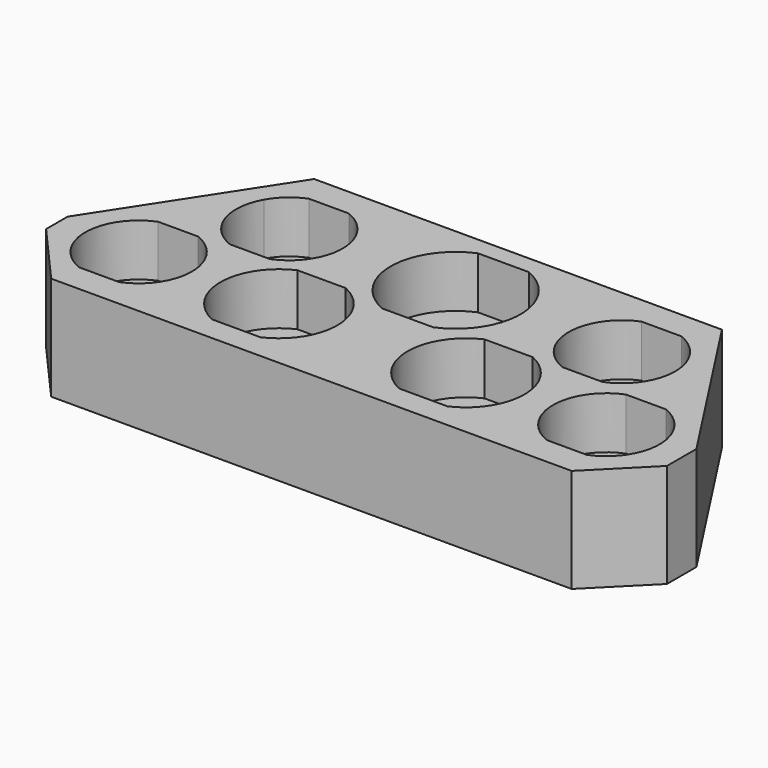
from build123d import *

# Parameters (mm, degrees)
F0_R     = 6.75
F1_DEPTH = 20
F2_DEPTH = 25
F3_DEPTH = 15
F4_DEPTH = 10


with BuildPart() as f1:
    # F0 (on Top) → F1 (new body)
    with BuildSketch(Plane.XY):
        Polygon((39.2457761297, 25), (-39.2132411266, 25), (-44.2739831788, 17.2285289957), (-60.5, -7.6887692861), (-60.5, -12.8802804498), (-49.8254138643, -25), (50.3314169129, -25), (60.5, -14.7866762627), (60.5, -7.6988059543), align=None)
        with BuildLine():
            ThreePointArc((-48.8487010796, -19.5), (-55.25, -10), (-48.8487010796, -0.5))
            Line((-48.8487010796, -0.5), (-41.1512989204, -0.5))
            ThreePointArc((-41.1512989204, -0.5), (-34.75, -10), (-41.1512989204, -19.5))
            Line((-41.1512989204, -19.5), (-48.8487010796, -19.5))
        make_face(mode=Mode.SUBTRACT)
        with BuildLine():
            ThreePointArc((-22.6368092477, -20.25), (-29.25, -10), (-22.6368092477, 0.25))
            Line((-22.6368092477, 0.25), (-13.3631907523, 0.25))
            ThreePointArc((-13.3631907523, 0.25), (-6.75, -10), (-13.3631907523, -20.25))
            Line((-13.3631907523, -20.25), (-22.6368092477, -20.25))
        make_face(mode=Mode.SUBTRACT)
        with BuildLine():
            ThreePointArc((13.3631907523, -20.25), (6.75, -10), (13.3631907523, 0.25))
            Line((13.3631907523, 0.25), (22.6368092477, 0.25))
            ThreePointArc((22.6368092477, 0.25), (29.25, -10), (22.6368092477, -20.25))
            Line((22.6368092477, -20.25), (13.3631907523, -20.25))
        make_face(mode=Mode.SUBTRACT)
        with BuildLine():
            ThreePointArc((41.1512989204, -19.5), (34.75, -10), (41.1512989204, -0.5))
            Line((41.1512989204, -0.5), (48.8487010796, -0.5))
            ThreePointArc((48.8487010796, -0.5), (55.25, -10), (48.8487010796, -19.5))
            Line((48.8487010796, -19.5), (41.1512989204, -19.5))
        make_face(mode=Mode.SUBTRACT)
        with BuildLine():
            ThreePointArc((-35.8487010796, 0.5), (-41.678209871, 6.6243883973), (-40.9220400109, 15.0457607994))
            ThreePointArc((-40.9220400109, 15.0457607994), (-38.7626192199, 17.7025632932), (-35.8487010796, 19.5))
            Line((-35.8487010796, 19.5), (-28.1512989204, 19.5))
            ThreePointArc((-28.1512989204, 19.5), (-21.75, 10), (-28.1512989204, 0.5))
            Line((-28.1512989204, 0.5), (-35.8487010796, 0.5))
        make_face(mode=Mode.SUBTRACT)
        with BuildLine():
            ThreePointArc((-4.8989794856, -1.5), (-12.5, 10), (-4.8989794856, 21.5))
            Line((-4.8989794856, 21.5), (4.8989794856, 21.5))
            ThreePointArc((4.8989794856, 21.5), (12.5, 10), (4.8989794856, -1.5))
            Line((4.8989794856, -1.5), (-4.8989794856, -1.5))
        make_face(mode=Mode.SUBTRACT)
        with BuildLine():
            ThreePointArc((28.1512989204, 0.5), (21.75, 10), (28.1512989204, 19.5))
            Line((28.1512989204, 19.5), (35.8487010796, 19.5))
            ThreePointArc((35.8487010796, 19.5), (42.25, 10), (35.8487010796, 0.5))
            Line((35.8487010796, 0.5), (28.1512989204, 0.5))
        make_face(mode=Mode.SUBTRACT)
        with BuildLine():
            Line((4.8989794856, 21.5), (-4.8989794856, 21.5))
            ThreePointArc((-4.8989794856, 21.5), (-12.5, 10), (-4.8989794856, -1.5))
            Line((-4.8989794856, -1.5), (4.8989794856, -1.5))
            ThreePointArc((4.8989794856, -1.5), (12.5, 10), (4.8989794856, 21.5))
        make_face()
        with Locations((0, 10)):
            Circle(F0_R, mode=Mode.SUBTRACT)
        with BuildLine():
            Line((-13.3631907523, 0.25), (-22.6368092477, 0.25))
            ThreePointArc((-22.6368092477, 0.25), (-29.25, -10), (-22.6368092477, -20.25))
            Line((-22.6368092477, -20.25), (-13.3631907523, -20.25))
            ThreePointArc((-13.3631907523, -20.25), (-6.75, -10), (-13.3631907523, 0.25))
        make_face()
        with Locations((-18, -10)):
            Circle(F0_R, mode=Mode.SUBTRACT)
        with BuildLine():
            Line((22.6368092477, 0.25), (13.3631907523, 0.25))
            ThreePointArc((13.3631907523, 0.25), (6.75, -10), (13.3631907523, -20.25))
            Line((13.3631907523, -20.25), (22.6368092477, -20.25))
            ThreePointArc((22.6368092477, -20.25), (29.25, -10), (22.6368092477, 0.25))
        make_face()
        with Locations((18, -10)):
            Circle(F0_R, mode=Mode.SUBTRACT)
        with BuildLine():
            Line((-41.1512989204, -0.5), (-48.8487010796, -0.5))
            ThreePointArc((-48.8487010796, -0.5), (-55.25, -10), (-48.8487010796, -19.5))
            Line((-48.8487010796, -19.5), (-41.1512989204, -19.5))
            ThreePointArc((-41.1512989204, -19.5), (-34.75, -10), (-41.1512989204, -0.5))
        make_face()
        with Locations((-45, -10)):
            Circle(F0_R, mode=Mode.SUBTRACT)
        with BuildLine():
            ThreePointArc((-35.8487010796, 19.5), (-38.7626192199, 17.7025632932), (-40.9220400109, 15.0457607994))
            ThreePointArc((-40.9220400109, 15.0457607994), (-41.678209871, 6.6243883973), (-35.8487010796, 0.5))
            Line((-35.8487010796, 0.5), (-28.1512989204, 0.5))
            ThreePointArc((-28.1512989204, 0.5), (-21.75, 10), (-28.1512989204, 19.5))
            Line((-28.1512989204, 19.5), (-35.8487010796, 19.5))
        make_face()
        with Locations((-32, 10)):
            Circle(F0_R, mode=Mode.SUBTRACT)
        with BuildLine():
            Line((35.8487010796, 19.5), (28.1512989204, 19.5))
            ThreePointArc((28.1512989204, 19.5), (21.75, 10), (28.1512989204, 0.5))
            Line((28.1512989204, 0.5), (35.8487010796, 0.5))
            ThreePointArc((35.8487010796, 0.5), (42.25, 10), (35.8487010796, 19.5))
        make_face()
        with Locations((32, 10)):
            Circle(F0_R, mode=Mode.SUBTRACT)
        with BuildLine():
            Line((48.8487010796, -0.5), (41.1512989204, -0.5))
            ThreePointArc((41.1512989204, -0.5), (34.75, -10), (41.1512989204, -19.5))
            Line((41.1512989204, -19.5), (48.8487010796, -19.5))
            ThreePointArc((48.8487010796, -19.5), (55.25, -10), (48.8487010796, -0.5))
        make_face()
        with Locations((45, -10)):
            Circle(F0_R, mode=Mode.SUBTRACT)
        with Locations((-45, -10)):
            Circle(F0_R)
        Polygon((-44.2783121635, -8.75), (-43.556624327, -10), (-44.2783121635, -11.25), (-45.7216878365, -11.25), (-46.443375673, -10), (-45.7216878365, -8.75), align=None, mode=Mode.SUBTRACT)
        with Locations((-32, 10)):
            Circle(F0_R)
        Polygon((-33.5877132403, 12.75), (-30.4122867597, 12.75), (-28.8245735195, 10), (-30.4122867597, 7.25), (-33.5877132403, 7.25), (-35.1754264805, 10), align=None, mode=Mode.SUBTRACT)
        with Locations((-18, -10)):
            Circle(F0_R)
        Polygon((-15.9792740578, -10), (-16.9896370289, -11.75), (-19.0103629711, -11.75), (-20.0207259422, -10), (-19.0103629711, -8.25), (-16.9896370289, -8.25), align=None, mode=Mode.SUBTRACT)
        with Locations((0, 10)):
            Circle(F0_R)
        Polygon((3.7527767497, 10), (1.8763883749, 6.75), (-1.8763883749, 6.75), (-3.7527767497, 10), (-1.8763883749, 13.25), (1.8763883749, 13.25), align=None, mode=Mode.SUBTRACT)
        with Locations((18, -10)):
            Circle(F0_R)
        Polygon((19.7320508076, -10), (18.8660254038, -11.5), (17.1339745962, -11.5), (16.2679491924, -10), (17.1339745962, -8.5), (18.8660254038, -8.5), align=None, mode=Mode.SUBTRACT)
        with Locations((32, 10)):
            Circle(F0_R)
        Polygon((33.2990381057, 12.25), (34.5980762114, 10), (33.2990381057, 7.75), (30.7009618943, 7.75), (29.4019237886, 10), (30.7009618943, 12.25), align=None, mode=Mode.SUBTRACT)
        with Locations((45, -10)):
            Circle(F0_R)
        Polygon((46.1547005384, -10), (45.5773502692, -11), (44.4226497308, -11), (43.8452994616, -10), (44.4226497308, -9), (45.5773502692, -9), align=None, mode=Mode.SUBTRACT)
        Polygon((-1.8763883749, 6.75), (1.8763883749, 6.75), (3.7527767497, 10), (1.8763883749, 13.25), (-1.8763883749, 13.25), (-3.7527767497, 10), align=None)
        Polygon((-28.8245735195, 10), (-30.4122867597, 12.75), (-33.5877132403, 12.75), (-35.1754264805, 10), (-33.5877132403, 7.25), (-30.4122867597, 7.25), align=None)
        Polygon((33.2990381057, 7.75), (34.5980762114, 10), (33.2990381057, 12.25), (30.7009618943, 12.25), (29.4019237886, 10), (30.7009618943, 7.75), align=None)
        Polygon((-19.0103629711, -11.75), (-16.9896370289, -11.75), (-15.9792740578, -10), (-16.9896370289, -8.25), (-19.0103629711, -8.25), (-20.0207259422, -10), align=None)
        Polygon((17.1339745962, -11.5), (18.8660254038, -11.5), (19.7320508076, -10), (18.8660254038, -8.5), (17.1339745962, -8.5), (16.2679491924, -10), align=None)
        Polygon((-44.2783121635, -11.25), (-43.556624327, -10), (-44.2783121635, -8.75), (-45.7216878365, -8.75), (-46.443375673, -10), (-45.7216878365, -11.25), align=None)
        Polygon((44.4226497308, -11), (45.5773502692, -11), (46.1547005384, -10), (45.5773502692, -9), (44.4226497308, -9), (43.8452994616, -10), align=None)
    extrude(amount=-F1_DEPTH)

    # F0 (on Top) → F2 (cut)
    with BuildSketch(Plane.XY):
        Polygon((-28.8245735195, 10), (-30.4122867597, 12.75), (-33.5877132403, 12.75), (-35.1754264805, 10), (-33.5877132403, 7.25), (-30.4122867597, 7.25), align=None)
        Polygon((-1.8763883749, 6.75), (1.8763883749, 6.75), (3.7527767497, 10), (1.8763883749, 13.25), (-1.8763883749, 13.25), (-3.7527767497, 10), align=None)
        Polygon((33.2990381057, 7.75), (34.5980762114, 10), (33.2990381057, 12.25), (30.7009618943, 12.25), (29.4019237886, 10), (30.7009618943, 7.75), align=None)
        Polygon((-44.2783121635, -11.25), (-43.556624327, -10), (-44.2783121635, -8.75), (-45.7216878365, -8.75), (-46.443375673, -10), (-45.7216878365, -11.25), align=None)
        Polygon((-19.0103629711, -11.75), (-16.9896370289, -11.75), (-15.9792740578, -10), (-16.9896370289, -8.25), (-19.0103629711, -8.25), (-20.0207259422, -10), align=None)
        Polygon((17.1339745962, -11.5), (18.8660254038, -11.5), (19.7320508076, -10), (18.8660254038, -8.5), (17.1339745962, -8.5), (16.2679491924, -10), align=None)
        Polygon((44.4226497308, -11), (45.5773502692, -11), (46.1547005384, -10), (45.5773502692, -9), (44.4226497308, -9), (43.8452994616, -10), align=None)
    extrude(amount=-F2_DEPTH, mode=Mode.SUBTRACT)

    # F0 (on Top) → F3 (cut)
    with BuildSketch(Plane.XY):
        with Locations((-32, 10)):
            Circle(F0_R)
        Polygon((-33.5877132403, 12.75), (-30.4122867597, 12.75), (-28.8245735195, 10), (-30.4122867597, 7.25), (-33.5877132403, 7.25), (-35.1754264805, 10), align=None, mode=Mode.SUBTRACT)
        with Locations((0, 10)):
            Circle(F0_R)
        Polygon((3.7527767497, 10), (1.8763883749, 6.75), (-1.8763883749, 6.75), (-3.7527767497, 10), (-1.8763883749, 13.25), (1.8763883749, 13.25), align=None, mode=Mode.SUBTRACT)
        with Locations((32, 10)):
            Circle(F0_R)
        Polygon((33.2990381057, 12.25), (34.5980762114, 10), (33.2990381057, 7.75), (30.7009618943, 7.75), (29.4019237886, 10), (30.7009618943, 12.25), align=None, mode=Mode.SUBTRACT)
        with Locations((45, -10)):
            Circle(F0_R)
        Polygon((46.1547005384, -10), (45.5773502692, -11), (44.4226497308, -11), (43.8452994616, -10), (44.4226497308, -9), (45.5773502692, -9), align=None, mode=Mode.SUBTRACT)
        with Locations((18, -10)):
            Circle(F0_R)
        Polygon((19.7320508076, -10), (18.8660254038, -11.5), (17.1339745962, -11.5), (16.2679491924, -10), (17.1339745962, -8.5), (18.8660254038, -8.5), align=None, mode=Mode.SUBTRACT)
        with Locations((-18, -10)):
            Circle(F0_R)
        Polygon((-15.9792740578, -10), (-16.9896370289, -11.75), (-19.0103629711, -11.75), (-20.0207259422, -10), (-19.0103629711, -8.25), (-16.9896370289, -8.25), align=None, mode=Mode.SUBTRACT)
        with Locations((-45, -10)):
            Circle(F0_R)
        Polygon((-44.2783121635, -8.75), (-43.556624327, -10), (-44.2783121635, -11.25), (-45.7216878365, -11.25), (-46.443375673, -10), (-45.7216878365, -8.75), align=None, mode=Mode.SUBTRACT)
    extrude(amount=-F3_DEPTH, mode=Mode.SUBTRACT)

    # F0 (on Top) → F4 (cut)
    with BuildSketch(Plane.XY):
        with BuildLine():
            Line((-41.1512989204, -0.5), (-48.8487010796, -0.5))
            ThreePointArc((-48.8487010796, -0.5), (-55.25, -10), (-48.8487010796, -19.5))
            Line((-48.8487010796, -19.5), (-41.1512989204, -19.5))
            ThreePointArc((-41.1512989204, -19.5), (-34.75, -10), (-41.1512989204, -0.5))
        make_face()
        with Locations((-45, -10)):
            Circle(F0_R, mode=Mode.SUBTRACT)
        with BuildLine():
            ThreePointArc((-35.8487010796, 19.5), (-38.7626192199, 17.7025632932), (-40.9220400109, 15.0457607994))
            ThreePointArc((-40.9220400109, 15.0457607994), (-41.678209871, 6.6243883973), (-35.8487010796, 0.5))
            Line((-35.8487010796, 0.5), (-28.1512989204, 0.5))
            ThreePointArc((-28.1512989204, 0.5), (-21.75, 10), (-28.1512989204, 19.5))
            Line((-28.1512989204, 19.5), (-35.8487010796, 19.5))
        make_face()
        with Locations((-32, 10)):
            Circle(F0_R, mode=Mode.SUBTRACT)
        with BuildLine():
            Line((4.8989794856, 21.5), (-4.8989794856, 21.5))
            ThreePointArc((-4.8989794856, 21.5), (-12.5, 10), (-4.8989794856, -1.5))
            Line((-4.8989794856, -1.5), (4.8989794856, -1.5))
            ThreePointArc((4.8989794856, -1.5), (12.5, 10), (4.8989794856, 21.5))
        make_face()
        with Locations((0, 10)):
            Circle(F0_R, mode=Mode.SUBTRACT)
        with BuildLine():
            Line((35.8487010796, 19.5), (28.1512989204, 19.5))
            ThreePointArc((28.1512989204, 19.5), (21.75, 10), (28.1512989204, 0.5))
            Line((28.1512989204, 0.5), (35.8487010796, 0.5))
            ThreePointArc((35.8487010796, 0.5), (42.25, 10), (35.8487010796, 19.5))
        make_face()
        with Locations((32, 10)):
            Circle(F0_R, mode=Mode.SUBTRACT)
        with BuildLine():
            Line((48.8487010796, -0.5), (41.1512989204, -0.5))
            ThreePointArc((41.1512989204, -0.5), (34.75, -10), (41.1512989204, -19.5))
            Line((41.1512989204, -19.5), (48.8487010796, -19.5))
            ThreePointArc((48.8487010796, -19.5), (55.25, -10), (48.8487010796, -0.5))
        make_face()
        with Locations((45, -10)):
            Circle(F0_R, mode=Mode.SUBTRACT)
        with BuildLine():
            Line((22.6368092477, 0.25), (13.3631907523, 0.25))
            ThreePointArc((13.3631907523, 0.25), (6.75, -10), (13.3631907523, -20.25))
            Line((13.3631907523, -20.25), (22.6368092477, -20.25))
            ThreePointArc((22.6368092477, -20.25), (29.25, -10), (22.6368092477, 0.25))
        make_face()
        with Locations((18, -10)):
            Circle(F0_R, mode=Mode.SUBTRACT)
        with BuildLine():
            Line((-13.3631907523, 0.25), (-22.6368092477, 0.25))
            ThreePointArc((-22.6368092477, 0.25), (-29.25, -10), (-22.6368092477, -20.25))
            Line((-22.6368092477, -20.25), (-13.3631907523, -20.25))
            ThreePointArc((-13.3631907523, -20.25), (-6.75, -10), (-13.3631907523, 0.25))
        make_face()
        with Locations((-18, -10)):
            Circle(F0_R, mode=Mode.SUBTRACT)
    extrude(amount=-F4_DEPTH, mode=Mode.SUBTRACT)


solid = f1.part
